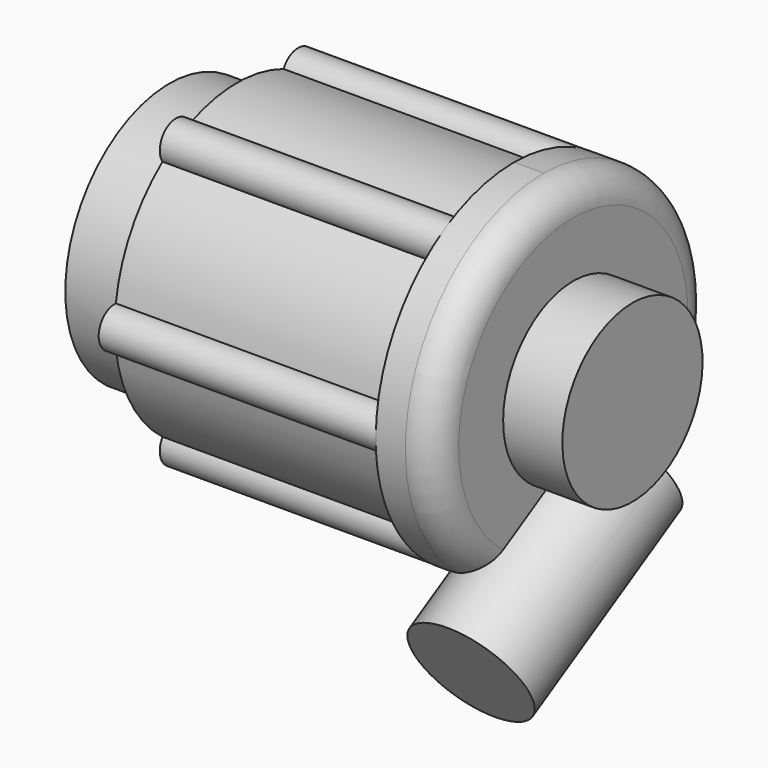
from build123d import *

# Parameters (mm, degrees)
F0_R      = 56.5
F1_DEPTH  = 5
F2_R      = 55
F3_DEPTH  = 28.5
F5_DEPTH  = 117
F9_R      = 25
F10_DEPTH = 90


with BuildPart() as f1:
    # F0 (on Right) → F1 (new body)
    with BuildSketch(Plane.YZ):
        Circle(F0_R)
    extrude(amount=-F1_DEPTH)

    # F2 (on face) → F3 (join)
    with BuildSketch(Plane.YZ):
        Circle(F2_R)
    extrude(amount=-F3_DEPTH)

    # F4 (on Right) → F5 (join)
    with BuildSketch(Plane.YZ):
        with BuildLine():
            ThreePointArc((39.31518, 51.132833), (36.5, 63.219854), (24.624743, 59.614361))
            ThreePointArc((24.624743, 59.614361), (0, 64.5), (-24.624743, 59.614361))
            ThreePointArc((-24.624743, 59.614361), (-36.5, 63.219854), (-39.31518, 51.132833))
            ThreePointArc((-39.31518, 51.132833), (-55.858639, 32.25), (-63.939922, 8.481528))
            ThreePointArc((-63.939922, 8.481528), (-73, 0), (-63.939922, -8.481528))
            ThreePointArc((-63.939922, -8.481528), (-55.858639, -32.25), (-39.31518, -51.132833))
            ThreePointArc((-39.31518, -51.132833), (-36.5, -63.219854), (-24.624743, -59.614361))
            ThreePointArc((-24.624743, -59.614361), (0, -64.5), (24.624743, -59.614361))
            ThreePointArc((24.624743, -59.614361), (36.5, -63.219854), (39.31518, -51.132833))
            ThreePointArc((39.31518, -51.132833), (55.858639, -32.25), (63.939922, -8.481528))
            ThreePointArc((63.939922, -8.481528), (73, 0), (63.939922, 8.481528))
            ThreePointArc((63.939922, 8.481528), (55.858639, 32.25), (39.31518, 51.132833))
        make_face()
    extrude(amount=F5_DEPTH)

    # F6 (on Front) → F7 (revolve)
    with BuildSketch(Plane.XZ):
        with BuildLine():
            Line((142, 37), (142, 60.5))
            ThreePointArc((142, 60.5), (138.338835, 69.338835), (129.5, 73))
            Line((129.5, 73), (117, 73))
            Line((117, 73), (117, 0))
            Line((117, 0), (167, 0))
            Line((167, 0), (167, 37))
            Line((167, 37), (142, 37))
        make_face()
    revolve(axis=Axis((80.947809, 0, 0), (1, 0, 0)))

    # F9 (on face) → F10 (join)
    with BuildSketch(Plane(origin=(0, 0, 0), x_dir=(-1, 0, 0), z_dir=(0, 0.866025, 0.5))):
        with Locations((-142, -48)):
            Circle(F9_R)
    extrude(amount=-F10_DEPTH)


solid = f1.part
